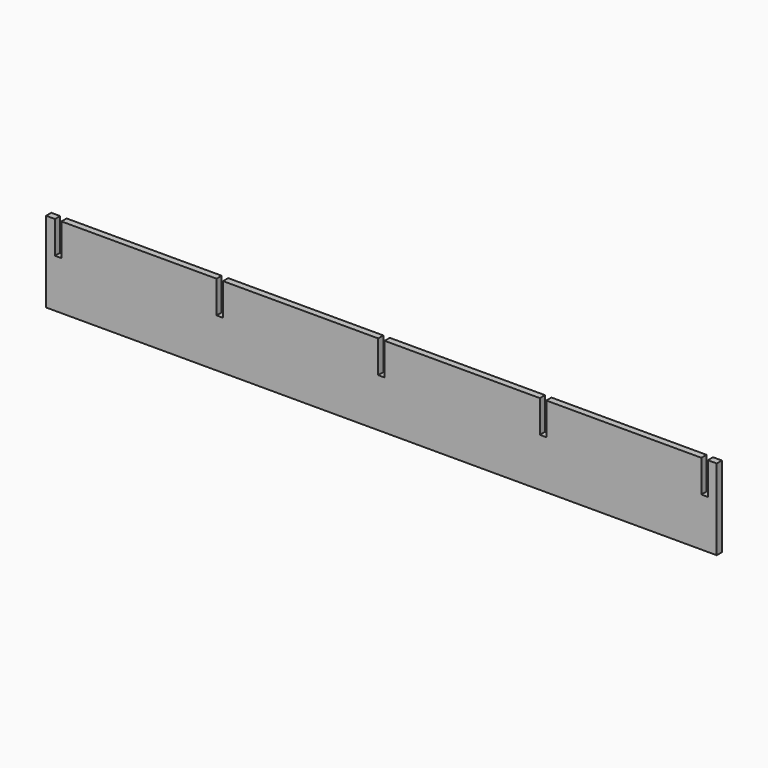
from build123d import *

# Parameters (mm, degrees)
F1_DEPTH = 4


with BuildPart() as f1:
    # F0 (on Front) → F1 (new body)
    with BuildSketch(Plane.XZ):
        Polygon((0, 50), (0, 0), (415, 0), (415, 50), (409.5, 50), (409.5, 30), (405.5, 30), (405.5, 50), (309.5, 50), (309.5, 30), (305.5, 30), (305.5, 50), (209.5, 50), (209.5, 30), (205.5, 30), (205.5, 50), (109.5, 50), (109.5, 30), (105.5, 30), (105.5, 50), (9.5, 50), (9.5, 30), (5.5, 30), (5.5, 50), align=None)
    extrude(amount=F1_DEPTH)


solid = f1.part
